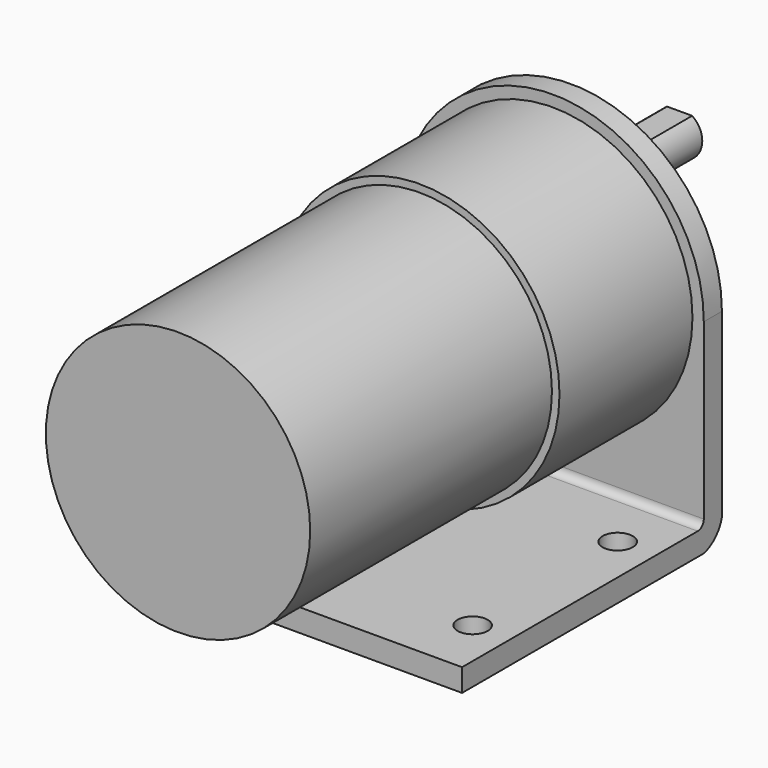
from build123d import *

# Parameters (mm, degrees)
SKETCH_W        = 40
SKETCH_H        = 43
PAD_DEPTH       = 3
SKETCH001_R     = 1.5
PAD001_DEPTH    = 3
SKETCH002_R     = 2
POCKET_DEPTH    = 3.001
FILLET_R        = 1
POCKET001_DEPTH = 40.001
SKETCH004_R     = 18.5
PAD002_DEPTH    = 22
SKETCH005_R     = 17.5
PAD003_DEPTH    = 40
SKETCH006_R     = 6
PAD004_DEPTH    = 6
FILLET001_R     = 1
SKETCH007_R     = 3
PAD005_DEPTH    = 15
POCKET002_DEPTH = 12
SKETCH009_R     = 1.5
POCKET003_DEPTH = 15


with BuildPart() as body:
    # Sketch → Pad (new body)
    with BuildSketch(Plane.XY):
        Rectangle(SKETCH_W, SKETCH_H)
    extrude(amount=PAD_DEPTH)

    # Sketch001 (on Face1 of Pad) → Pad001 (join)
    with BuildSketch(Plane(origin=(0, 21.5, 0), x_dir=(-1, 0, 0), z_dir=(0, 1, 0))):
        with BuildLine():
            Line((-20, 3), (20, 3))
            Line((20, 3), (20, 27))
            ThreePointArc((20, 27), (0, 47), (-20, 27))
            Line((-20, 27), (-20, 3))
        make_face()
        with Locations((-7.75, 40.42)):
            Circle(SKETCH001_R, mode=Mode.SUBTRACT)
        with Locations((7.75, 40.42)):
            Circle(SKETCH001_R, mode=Mode.SUBTRACT)
        with Locations((15.5, 27)):
            Circle(SKETCH001_R, mode=Mode.SUBTRACT)
        with Locations((-15.5, 27)):
            Circle(SKETCH001_R, mode=Mode.SUBTRACT)
        with Locations((-7.75, 13.58)):
            Circle(SKETCH001_R, mode=Mode.SUBTRACT)
        with Locations((7.75, 13.58)):
            Circle(SKETCH001_R, mode=Mode.SUBTRACT)
        with BuildLine():
            ThreePointArc((6.5, 34), (0, 40.5), (-6.5, 34))
            Line((-6.5, 34), (-6.5, 20))
            ThreePointArc((-6.5, 20), (0, 13.5), (6.5, 20))
            Line((6.5, 20), (6.5, 34))
        make_face(mode=Mode.SUBTRACT)
    extrude(amount=-PAD001_DEPTH)

    # Sketch002 (on Face7 of Pad001) → Pocket (cut, through all)
    with BuildSketch(Plane.XY.offset(3)):
        with Locations((15, 10.5)):
            Circle(SKETCH002_R)
        with Locations((15, -13.5)):
            Circle(SKETCH002_R)
        with Locations((-15, 10.5)):
            Circle(SKETCH002_R)
        with Locations((-15, -13.5)):
            Circle(SKETCH002_R)
    extrude(amount=-POCKET_DEPTH, mode=Mode.SUBTRACT)

    # Fillet
    fillet_edges = [body.edges().sort_by_distance(p)[0] for p in [
        (0, 18.5, 3),
    ]]
    fillet(fillet_edges, radius=FILLET_R)

    # Sketch003 (on Face1 of Fillet) → Pocket001 (cut, through all)
    with BuildSketch(Plane(origin=(-20, 0, 0), x_dir=(0, -1, 0), z_dir=(-1, 0, 0))):
        with BuildLine():
            ThreePointArc((-21.5, 3), (-20.415476, 1.084524), (-18.5, 0))
            Line((-21.5, 0), (-18.5, 0))
            Line((-21.5, 3), (-21.5, 0))
        make_face()
    extrude(amount=-POCKET001_DEPTH, mode=Mode.SUBTRACT)


with BuildPart() as body_1:
    # Body placement: moved
    add(body.part.moved(Location((0, -18.5, -8.5))))


with BuildPart() as body001:
    # Sketch004 → Pad002 (new body)
    with BuildSketch(Plane.XZ):
        with Locations((0, 18.5)):
            Circle(SKETCH004_R)
    extrude(amount=PAD002_DEPTH)

    # Sketch005 (on Face3 of Pad002) → Pad003 (join)
    with BuildSketch(Plane.XZ.offset(22)):
        with Locations((0, 18.5)):
            Circle(SKETCH005_R)
    extrude(amount=PAD003_DEPTH)

    # Sketch006 (on Face2 of Pad003) → Pad004 (join)
    with BuildSketch(Plane(origin=(0, 0, 0), x_dir=(1, 0, 0), z_dir=(0, 1, 0))):
        with Locations((0, -25.5)):
            Circle(SKETCH006_R)
    extrude(amount=PAD004_DEPTH)

    # Fillet001
    fillet001_edges = [body001.edges().sort_by_distance(p)[0] for p in [
        (-6, 6, 25.5),
    ]]
    fillet(fillet001_edges, radius=FILLET001_R)

    # Sketch007 (on Face4 of Fillet001) → Pad005 (join)
    with BuildSketch(Plane(origin=(0, 6, 0), x_dir=(1, 0, 0), z_dir=(0, 1, 0))):
        with Locations((0, -25.5)):
            Circle(SKETCH007_R)
    extrude(amount=PAD005_DEPTH)

    # Sketch008 (on Face8 of Pad005) → Pocket002 (cut)
    with BuildSketch(Plane(origin=(0, 21, 0), x_dir=(1, 0, 0), z_dir=(0, 1, 0))):
        with BuildLine():
            Line((-1.658312, -28), (1.658312, -28))
            ThreePointArc((-1.658312, -28), (0, -28.5), (1.658312, -28))
        make_face()
    extrude(amount=-POCKET002_DEPTH, mode=Mode.SUBTRACT)

    # Sketch009 (on Face3 of Pocket002) → Pocket003 (cut)
    with BuildSketch(Plane(origin=(0, 0, 0), x_dir=(1, 0, 0), z_dir=(0, 1, 0))):
        with Locations((-7.75, -5.08)):
            Circle(SKETCH009_R)
        with Locations((7.75, -5.08)):
            Circle(SKETCH009_R)
        with Locations((-15.5, -18.5)):
            Circle(SKETCH009_R)
        with Locations((15.5, -18.5)):
            Circle(SKETCH009_R)
        with Locations((7.75, -31.92)):
            Circle(SKETCH009_R)
        with Locations((-7.75, -31.92)):
            Circle(SKETCH009_R)
    extrude(amount=-POCKET003_DEPTH, mode=Mode.SUBTRACT)


solid = Compound([body_1.part, body001.part])
